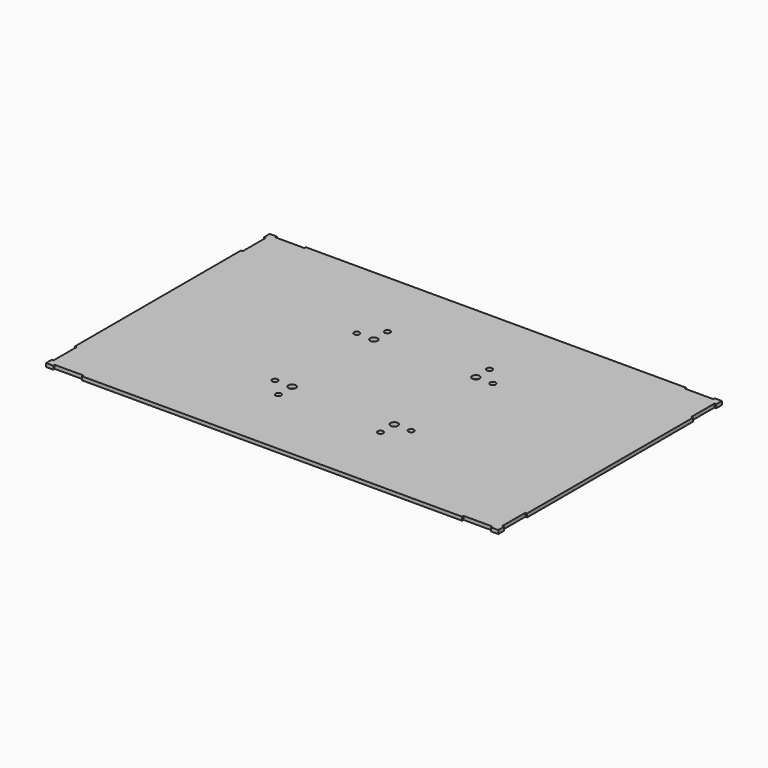
from build123d import *

# Parameters (mm, degrees)
F0_W     = 398.4752
F0_H     = 246.38
F0_R     = 2.5
F0_R_2   = 3.3
F1_DEPTH = 3.175
F2_W     = 25.4
F2_H     = 1.5875
F2_W_2   = 1.5875
F2_H_2   = 25.4
F3_DEPTH = 3.175


with BuildPart() as f1:
    # F0 (on Top) → F1 (new body)
    with BuildSketch(Plane.XY):
        Rectangle(F0_W, F0_H)
        with Locations((-60, -45)):
            Circle(F0_R, mode=Mode.SUBTRACT)
        with Locations((-45, -60)):
            Circle(F0_R, mode=Mode.SUBTRACT)
        with Locations((-45, -45)):
            Circle(F0_R_2, mode=Mode.SUBTRACT)
        with Locations((45, -60)):
            Circle(F0_R, mode=Mode.SUBTRACT)
        with Locations((45, -45)):
            Circle(F0_R_2, mode=Mode.SUBTRACT)
        with Locations((60, -45)):
            Circle(F0_R, mode=Mode.SUBTRACT)
        with Locations((-60, 45)):
            Circle(F0_R, mode=Mode.SUBTRACT)
        with Locations((-45, 45)):
            Circle(F0_R_2, mode=Mode.SUBTRACT)
        with Locations((-45, 60)):
            Circle(F0_R, mode=Mode.SUBTRACT)
        with Locations((45, 45)):
            Circle(F0_R_2, mode=Mode.SUBTRACT)
        with Locations((45, 60)):
            Circle(F0_R, mode=Mode.SUBTRACT)
        with Locations((60, 45)):
            Circle(F0_R, mode=Mode.SUBTRACT)
    extrude(amount=F1_DEPTH)

    # F2 (on face) → F3 (cut, through all)
    with BuildSketch(Plane.XY.offset(3.175)):
        with Locations((-180.1876, 122.39625)):
            Rectangle(F2_W, F2_H)
        with Locations((180.1876, 122.39625)):
            Rectangle(F2_W, F2_H)
        with Locations((-180.1876, -122.39625)):
            Rectangle(F2_W, F2_H)
        with Locations((180.1876, -122.39625)):
            Rectangle(F2_W, F2_H)
        with Locations((-198.44385, 104.14)):
            Rectangle(F2_W_2, F2_H_2)
        with Locations((198.44385, 104.14)):
            Rectangle(F2_W_2, F2_H_2)
        with Locations((-198.44385, -104.14)):
            Rectangle(F2_W_2, F2_H_2)
        with Locations((198.44385, -104.14)):
            Rectangle(F2_W_2, F2_H_2)
    extrude(amount=-F3_DEPTH, mode=Mode.SUBTRACT)


solid = f1.part
